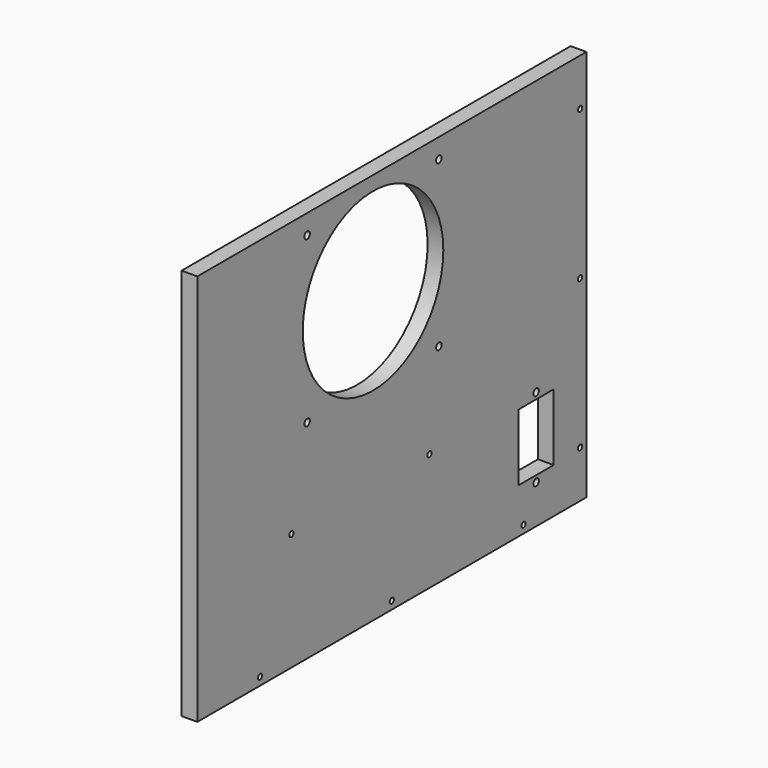
from build123d import *

# Parameters (mm, degrees)
CYLINDER033_R           = 1.7
CYLINDER033_DEPTH       = 20
CYLINDER031_R           = 1.7
CYLINDER031_DEPTH       = 20
CYLINDER031_ROLL_ANGLE  = 90
CYLINDER028_R           = 1.7
CYLINDER028_DEPTH       = 20
CYLINDER028_ROLL_ANGLE  = 90
CYLINDER032_R           = 1.7
CYLINDER032_DEPTH       = 20
CYLINDER030_R           = 1.7
CYLINDER030_DEPTH       = 20
CYLINDER030_ROLL_ANGLE  = 90
CYLINDER029_R           = 1.7
CYLINDER029_DEPTH       = 20
CYLINDER024_R           = 1.7
CYLINDER024_DEPTH       = 20
CYLINDER024_PITCH_ANGLE = 90
CYLINDER025_R           = 1.7
CYLINDER025_DEPTH       = 20
CYLINDER025_PITCH_ANGLE = 90
CYLINDER026_R           = 1.7
CYLINDER026_DEPTH       = 20
CYLINDER026_PITCH_ANGLE = 90
CYLINDER027_R           = 1.7
CYLINDER027_DEPTH       = 20
CYLINDER027_PITCH_ANGLE = 90
CYLINDER023_R           = 1.7
CYLINDER023_DEPTH       = 20
CYLINDER023_PITCH_ANGLE = 90
CYLINDER022_R           = 1.7
CYLINDER022_DEPTH       = 20
CYLINDER022_PITCH_ANGLE = 90
CYLINDER020_R           = 1.7
CYLINDER020_DEPTH       = 20
CYLINDER020_PITCH_ANGLE = 90
CYLINDER019_R           = 1.7
CYLINDER019_DEPTH       = 20
CYLINDER019_PITCH_ANGLE = 90
SKETCH018_R             = 2.2
SKETCH018_R_2           = 56
PAD016_DEPTH            = 20
SKETCH012_R             = 2.2
SKETCH012_W             = 27.8
SKETCH012_H             = 42.5
PAD012_DEPTH            = 30
SKETCH006_W             = 310
SKETCH006_H             = 250
PAD006_DEPTH            = 10


with BuildPart() as cylinder033:
    # Cylinder033 → Cylinder033 (new body)
    with BuildSketch(Plane(origin=(-205, 120, 240), x_dir=(1, 0, 0), z_dir=(0, 0, 1))):
        Circle(CYLINDER033_R)
    extrude(amount=CYLINDER033_DEPTH)


with BuildPart() as cylinder031:
    # Cylinder031 → Cylinder031 (new body)
    with BuildSketch(Plane.XY):
        Circle(CYLINDER031_R)
    extrude(amount=CYLINDER031_DEPTH)


with BuildPart() as cylinder031_1:
    # Cylinder031 roll: moved
    add(cylinder031.part.rotate(Axis((0, 0, 0), (1, 0, 0)), CYLINDER031_ROLL_ANGLE))


with BuildPart() as cylinder031_2:
    # Cylinder031 placement: moved
    add(cylinder031_1.part.moved(Location((-205, -140, 210))))


with BuildPart() as cylinder028:
    # Cylinder028 → Cylinder028 (new body)
    with BuildSketch(Plane.XY):
        Circle(CYLINDER028_R)
    extrude(amount=CYLINDER028_DEPTH)


with BuildPart() as cylinder028_1:
    # Cylinder028 roll: moved
    add(cylinder028.part.rotate(Axis((0, 0, 0), (1, 0, 0)), CYLINDER028_ROLL_ANGLE))


with BuildPart() as cylinder028_2:
    # Cylinder028 placement: moved
    add(cylinder028_1.part.moved(Location((-205, -140, 20))))


with BuildPart() as cylinder032:
    # Cylinder032 → Cylinder032 (new body)
    with BuildSketch(Plane(origin=(-205, 15, 240), x_dir=(1, 0, 0), z_dir=(0, 0, 1))):
        Circle(CYLINDER032_R)
    extrude(amount=CYLINDER032_DEPTH)


with BuildPart() as cylinder030:
    # Cylinder030 → Cylinder030 (new body)
    with BuildSketch(Plane.XY):
        Circle(CYLINDER030_R)
    extrude(amount=CYLINDER030_DEPTH)


with BuildPart() as cylinder030_1:
    # Cylinder030 roll: moved
    add(cylinder030.part.rotate(Axis((0, 0, 0), (1, 0, 0)), CYLINDER030_ROLL_ANGLE))


with BuildPart() as cylinder030_2:
    # Cylinder030 placement: moved
    add(cylinder030_1.part.moved(Location((-205, -140, 115))))


with BuildPart() as fusion006:
    # Cylinder029 → Cylinder029 (new body)
    with BuildSketch(Plane(origin=(-205, -90, 240), x_dir=(1, 0, 0), z_dir=(0, 0, 1))):
        Circle(CYLINDER029_R)
    extrude(amount=CYLINDER029_DEPTH)

    # Fusion006: union Cylinder033, Cylinder031, Cylinder028, Cylinder032, Cylinder030
    add(cylinder033.part)
    add(cylinder031_2.part)
    add(cylinder028_2.part)
    add(cylinder032.part)
    add(cylinder030_2.part)


with BuildPart() as cylinder024:
    # Cylinder024 → Cylinder024 (new body)
    with BuildSketch(Plane.XY):
        Circle(CYLINDER024_R)
    extrude(amount=CYLINDER024_DEPTH)


with BuildPart() as cylinder024_1:
    # Cylinder024 pitch: moved
    add(cylinder024.part.rotate(Axis((0, 0, 0), (0, 1, 0)), CYLINDER024_PITCH_ANGLE))


with BuildPart() as cylinder024_2:
    # Cylinder024 placement: moved
    add(cylinder024_1.part.moved(Location((-220, 120, -5))))


with BuildPart() as cylinder025:
    # Cylinder025 → Cylinder025 (new body)
    with BuildSketch(Plane.XY):
        Circle(CYLINDER025_R)
    extrude(amount=CYLINDER025_DEPTH)


with BuildPart() as cylinder025_1:
    # Cylinder025 pitch: moved
    add(cylinder025.part.rotate(Axis((0, 0, 0), (0, 1, 0)), CYLINDER025_PITCH_ANGLE))


with BuildPart() as cylinder025_2:
    # Cylinder025 placement: moved
    add(cylinder025_1.part.moved(Location((-220, 165, 20))))


with BuildPart() as cylinder026:
    # Cylinder026 → Cylinder026 (new body)
    with BuildSketch(Plane.XY):
        Circle(CYLINDER026_R)
    extrude(amount=CYLINDER026_DEPTH)


with BuildPart() as cylinder026_1:
    # Cylinder026 pitch: moved
    add(cylinder026.part.rotate(Axis((0, 0, 0), (0, 1, 0)), CYLINDER026_PITCH_ANGLE))


with BuildPart() as cylinder026_2:
    # Cylinder026 placement: moved
    add(cylinder026_1.part.moved(Location((-220, 165, 115))))


with BuildPart() as cylinder027:
    # Cylinder027 → Cylinder027 (new body)
    with BuildSketch(Plane.XY):
        Circle(CYLINDER027_R)
    extrude(amount=CYLINDER027_DEPTH)


with BuildPart() as cylinder027_1:
    # Cylinder027 pitch: moved
    add(cylinder027.part.rotate(Axis((0, 0, 0), (0, 1, 0)), CYLINDER027_PITCH_ANGLE))


with BuildPart() as cylinder027_2:
    # Cylinder027 placement: moved
    add(cylinder027_1.part.moved(Location((-220, 165, 210))))


with BuildPart() as cylinder023:
    # Cylinder023 → Cylinder023 (new body)
    with BuildSketch(Plane.XY):
        Circle(CYLINDER023_R)
    extrude(amount=CYLINDER023_DEPTH)


with BuildPart() as cylinder023_1:
    # Cylinder023 pitch: moved
    add(cylinder023.part.rotate(Axis((0, 0, 0), (0, 1, 0)), CYLINDER023_PITCH_ANGLE))


with BuildPart() as cylinder023_2:
    # Cylinder023 placement: moved
    add(cylinder023_1.part.moved(Location((-220, 15, -5))))


with BuildPart() as fusion007:
    # Cylinder022 → Cylinder022 (new body)
    with BuildSketch(Plane.XY):
        Circle(CYLINDER022_R)
    extrude(amount=CYLINDER022_DEPTH)


with BuildPart() as fusion007_1:
    # Cylinder022 pitch: moved
    add(fusion007.part.rotate(Axis((0, 0, 0), (0, 1, 0)), CYLINDER022_PITCH_ANGLE))


with BuildPart() as fusion007_2:
    # Cylinder022 placement: moved
    add(fusion007_1.part.moved(Location((-220, -90, -5))))

    # Fusion007: union Cylinder024, Cylinder025, Cylinder026, Cylinder027, Cylinder023
    add(cylinder024_2.part)
    add(cylinder025_2.part)
    add(cylinder026_2.part)
    add(cylinder027_2.part)
    add(cylinder023_2.part)


with BuildPart() as cylinder020:
    # Cylinder020 → Cylinder020 (new body)
    with BuildSketch(Plane.XY):
        Circle(CYLINDER020_R)
    extrude(amount=CYLINDER020_DEPTH)


with BuildPart() as cylinder020_1:
    # Cylinder020 pitch: moved
    add(cylinder020.part.rotate(Axis((0, 0, 0), (0, 1, 0)), CYLINDER020_PITCH_ANGLE))


with BuildPart() as cylinder020_2:
    # Cylinder020 placement: moved
    add(cylinder020_1.part.moved(Location((-220, 45, 65))))


with BuildPart() as fusion009:
    # Cylinder019 → Cylinder019 (new body)
    with BuildSketch(Plane.XY):
        Circle(CYLINDER019_R)
    extrude(amount=CYLINDER019_DEPTH)


with BuildPart() as fusion009_1:
    # Cylinder019 pitch: moved
    add(fusion009.part.rotate(Axis((0, 0, 0), (0, 1, 0)), CYLINDER019_PITCH_ANGLE))


with BuildPart() as fusion009_2:
    # Cylinder019 placement: moved
    add(fusion009_1.part.moved(Location((-220, -65, 65))))

    # Fusion008: union Cylinder020
    add(cylinder020_2.part)

    # Fusion009: union Fusion006, Fusion007
    add(fusion006.part)
    add(fusion007_2.part)


with BuildPart() as pad016:
    # Sketch018 → Pad016 (new body)
    with BuildSketch(Plane(origin=(-200, 0, 175), x_dir=(0, 1, 0), z_dir=(1, 0, 0))):
        with Locations((-52.5, 52.5)):
            Circle(SKETCH018_R)
        with Locations((52.5, 52.5)):
            Circle(SKETCH018_R)
        with Locations((-52.5, -52.5)):
            Circle(SKETCH018_R)
        with Locations((52.5, -52.5)):
            Circle(SKETCH018_R)
        Circle(SKETCH018_R_2)
    extrude(amount=-PAD016_DEPTH)


with BuildPart() as pad012:
    # Sketch012 → Pad012 (new body)
    with BuildSketch(Plane(origin=(-213, 130, 40), x_dir=(0, 1, 0), z_dir=(1, 0, 0))):
        with Locations((0, 25.3)):
            Circle(SKETCH012_R)
        with Locations((0, -25.3)):
            Circle(SKETCH012_R)
        Rectangle(SKETCH012_W, SKETCH012_H)
    extrude(amount=PAD012_DEPTH)


with BuildPart() as cut012:
    # Sketch006 → Pad006 (new body)
    with BuildSketch(Plane.YZ.offset(-210)):
        with Locations((15, 115)):
            Rectangle(SKETCH006_W, SKETCH006_H)
    extrude(amount=PAD006_DEPTH)

    # Cut004: cut Pad012
    add(pad012.part, mode=Mode.SUBTRACT)

    # Cut011: cut Pad016
    add(pad016.part, mode=Mode.SUBTRACT)

    # Cut012: cut Fusion009
    add(fusion009_2.part, mode=Mode.SUBTRACT)


solid = cut012.part
